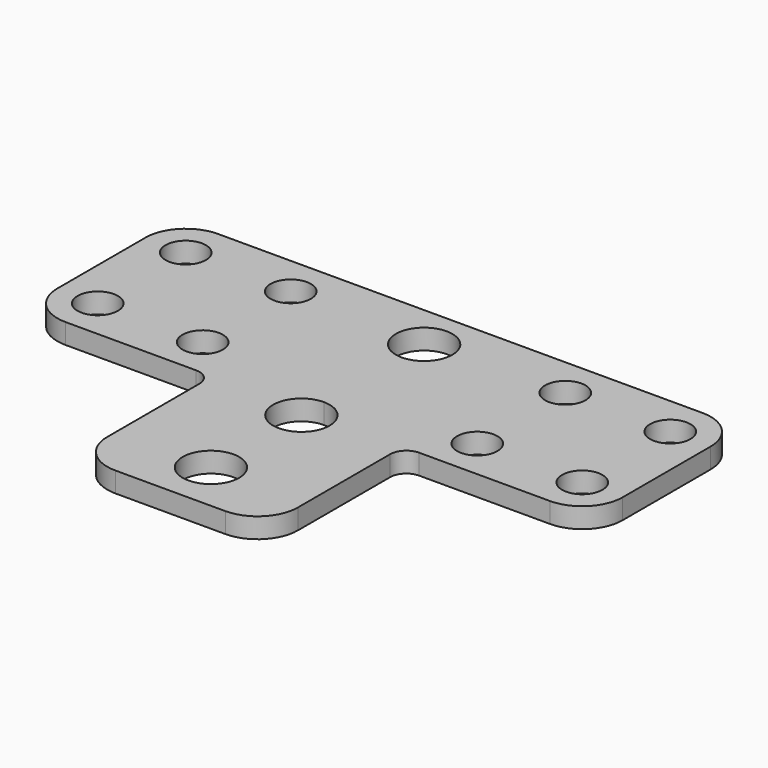
from build123d import *

# Parameters (mm, degrees)
F0_R     = 4.445
F0_R_2   = 3.175
F1_DEPTH = 3.175


with BuildPart() as f1:
    # F0 (on Top) → F1 (new body)
    with BuildSketch(Plane.XY):
        with BuildLine():
            Line((82.55, 0), (6.35, 0))
            ThreePointArc((6.35, 0), (1.859872, -1.859872), (0, -6.35))
            Line((0, -6.35), (0, -23.64994))
            ThreePointArc((0, -23.64994), (1.859872, -28.140068), (6.35, -29.99994))
            Line((6.35, -29.99994), (26.91003, -29.99994))
            ThreePointArc((26.91003, -29.99994), (28.706081, -30.743889), (29.45003, -32.53994))
            Line((29.45003, -32.53994), (29.45003, -50.64994))
            ThreePointArc((29.45003, -50.64994), (31.309902, -55.140068), (35.80003, -56.99994))
            Line((35.80003, -56.99994), (53.09997, -56.99994))
            ThreePointArc((53.09997, -56.99994), (57.590098, -55.140068), (59.44997, -50.64994))
            Line((59.44997, -50.64994), (59.44997, -32.53994))
            ThreePointArc((59.44997, -32.53994), (60.193919, -30.743889), (61.98997, -29.99994))
            Line((61.98997, -29.99994), (82.55, -29.99994))
            ThreePointArc((82.55, -29.99994), (87.040128, -28.140068), (88.9, -23.64994))
            Line((88.9, -23.64994), (88.9, -6.35))
            ThreePointArc((88.9, -6.35), (87.040128, -1.859872), (82.55, 0))
        make_face()
        with Locations((44.45, -49.022)):
            Circle(F0_R, mode=Mode.SUBTRACT)
        with BuildLine():
            ThreePointArc((44.45, -26.797), (47.59309, -28.09891), (48.895, -31.242))
            ThreePointArc((48.895, -31.242), (41.30691, -34.38509), (44.45, -26.797))
        make_face(mode=Mode.SUBTRACT)
        with Locations((6.35, -23.64994)):
            Circle(F0_R_2, mode=Mode.SUBTRACT)
        with Locations((22.86, -23.64994)):
            Circle(F0_R_2, mode=Mode.SUBTRACT)
        with Locations((6.35, -6.35)):
            Circle(F0_R_2, mode=Mode.SUBTRACT)
        with Locations((22.86, -6.35)):
            Circle(F0_R_2, mode=Mode.SUBTRACT)
        with Locations((66.04, -23.64994)):
            Circle(F0_R_2, mode=Mode.SUBTRACT)
        with Locations((82.55, -23.64994)):
            Circle(F0_R_2, mode=Mode.SUBTRACT)
        with BuildLine():
            ThreePointArc((48.895, -7.112), (47.59309, -10.25509), (44.45, -11.557))
            ThreePointArc((44.45, -11.557), (41.30691, -3.96891), (48.895, -7.112))
        make_face(mode=Mode.SUBTRACT)
        with Locations((66.04, -6.35)):
            Circle(F0_R_2, mode=Mode.SUBTRACT)
        with Locations((82.55, -6.35)):
            Circle(F0_R_2, mode=Mode.SUBTRACT)
    extrude(amount=F1_DEPTH)


solid = f1.part
